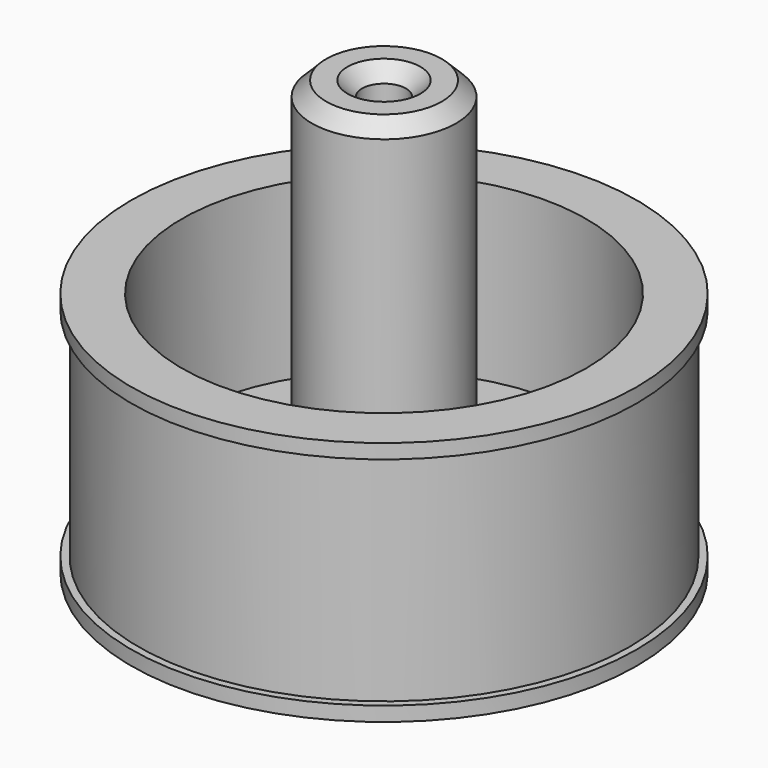
from build123d import *

# Parameters (mm, degrees)
F0_R      = 17.5
F1_DEPTH  = 1
F2_R      = 17
F3_DEPTH  = 15
F4_R      = 17.5
F5_DEPTH  = 1
F6_R      = 14
F7_DEPTH  = 12
F8_R      = 5
F9_DEPTH  = 25
F10_R     = 1.525
F11_DEPTH = 30
F12_SIZE  = 1


with BuildPart() as f1:
    # F0 (on Top) → F1 (new body)
    with BuildSketch(Plane.XY):
        Circle(F0_R)
    extrude(amount=F1_DEPTH)

    # F2 (on face) → F3 (join)
    with BuildSketch(Plane.XY.offset(1)):
        Circle(F2_R)
    extrude(amount=F3_DEPTH)

    # F4 (on face) → F5 (join)
    with BuildSketch(Plane.XY.offset(16)):
        Circle(F4_R)
    extrude(amount=F5_DEPTH)

    # F6 (on face) → F7 (cut)
    with BuildSketch(Plane.XY.offset(17)):
        Circle(F6_R)
    extrude(amount=-F7_DEPTH, mode=Mode.SUBTRACT)

    # F8 (on face) → F9 (join)
    with BuildSketch(Plane.XY.offset(5)):
        Circle(F8_R)
    extrude(amount=F9_DEPTH)

    # F10 (on face) → F11 (cut, through all)
    with BuildSketch(Plane.XY.offset(30)):
        Circle(F10_R)
    extrude(amount=-F11_DEPTH, mode=Mode.SUBTRACT)

    # F12
    f12_edges = [f1.edges().sort_by_distance(p)[0] for p in [
        (-1.525, 0, 30),
        (-5, 0, 30),
    ]]
    chamfer(f12_edges, length=F12_SIZE)


solid = f1.part
